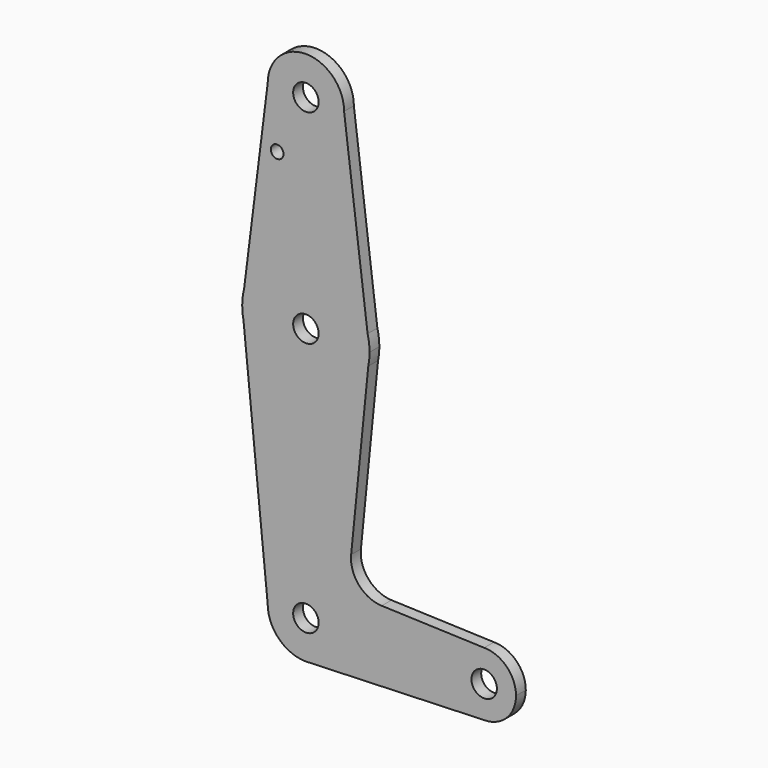
from build123d import *

# Parameters (mm, degrees)
F0_R     = 3.175
F0_R_2   = 1.5875
F1_DEPTH = 3.048


with BuildPart() as f1:
    # F0 (on Front) → F1 (new body)
    with BuildSketch(Plane.XZ):
        with BuildLine():
            ThreePointArc((0.6794904459, -9.5007324841), (6.9712901065, -6.4905114784), (9.525, 0))
            ThreePointArc((9.525, 0), (0, 9.525), (-9.525, 0))
            ThreePointArc((-9.525, 0), (-6.7351920908, -6.7351920908), (0, -9.525))
            Line((0, -9.525), (0.6794904459, -9.5007324841))
        make_face()
        Circle(F0_R, mode=Mode.SUBTRACT)
        with BuildLine():
            ThreePointArc((-9.525, 0), (0, 9.525), (9.525, 0))
            ThreePointArc((9.525, 0), (6.9712901065, -6.4905114784), (0.6794904459, -9.5007324841))
            Line((0.6794904459, -9.5007324841), (44.45, -7.9375))
            ThreePointArc((44.45, -7.9375), (36.5125, 0), (44.45, 7.9375))
            Line((44.45, 7.9375), (18.9105730062, 8.8496223926))
            ThreePointArc((18.9105730062, 8.8496223926), (13.2053552395, 11.5661923774), (11.2835831424, 17.5858314242))
            Line((11.2835831424, 17.5858314242), (15.5606435644, 60.3564356436))
            ThreePointArc((15.5606435644, 60.3564356436), (0, 47.625), (-15.5606435644, 60.3564356436))
            Line((-15.5606435644, 60.3564356436), (-9.525, 0))
        make_face()
        with BuildLine():
            ThreePointArc((0, -9.525), (0.3399618281, -9.5189311877), (0.6794904459, -9.5007324841))
            Line((0.6794904459, -9.5007324841), (0, -9.525))
        make_face()
        with BuildLine():
            Line((-15.875, 63.5), (-15.5606435644, 60.3564356436))
            ThreePointArc((-15.5606435644, 60.3564356436), (0, 47.625), (15.5606435644, 60.3564356436))
            Line((15.5606435644, 60.3564356436), (15.875, 63.5))
            Line((15.875, 63.5), (15.3865384615, 67.4076923077))
            ThreePointArc((15.3865384615, 67.4076923077), (0, 79.375), (-15.3865384615, 67.4076923077))
            Line((-15.3865384615, 67.4076923077), (-15.875, 63.5))
        make_face()
        with Locations((0, 63.5)):
            Circle(F0_R, mode=Mode.SUBTRACT)
        with BuildLine():
            ThreePointArc((-15.875, 63.5), (-15.7962153946, 61.9203784605), (-15.5606435644, 60.3564356436))
            Line((-15.5606435644, 60.3564356436), (-15.875, 63.5))
        make_face()
        with BuildLine():
            ThreePointArc((44.45, 7.9375), (36.5125, 0), (44.45, -7.9375))
            ThreePointArc((44.45, -7.9375), (50.0626600757, -5.6126600757), (52.3875, 0))
            ThreePointArc((52.3875, 0), (50.0626600757, 5.6126600757), (44.45, 7.9375))
        make_face()
        with Locations((44.45, 0)):
            Circle(F0_R, mode=Mode.SUBTRACT)
        with BuildLine():
            ThreePointArc((-15.3865384615, 67.4076923077), (-15.7524112928, 65.4690514116), (-15.875, 63.5))
            Line((-15.875, 63.5), (-15.3865384615, 67.4076923077))
        make_face()
        with BuildLine():
            Line((15.875, 63.5), (15.5606435644, 60.3564356436))
            ThreePointArc((15.5606435644, 60.3564356436), (15.7962153946, 61.9203784605), (15.875, 63.5))
        make_face()
        with BuildLine():
            Line((-9.525, 114.3), (-15.3865384615, 67.4076923077))
            ThreePointArc((-15.3865384615, 67.4076923077), (0, 79.375), (15.3865384615, 67.4076923077))
            Line((15.3865384615, 67.4076923077), (9.525, 114.3))
            ThreePointArc((9.525, 114.3), (0, 104.775), (-9.525, 114.3))
        make_face()
        with Locations((-7.163841743, 100.0252)):
            Circle(F0_R_2, mode=Mode.SUBTRACT)
        with BuildLine():
            Line((15.3865384615, 67.4076923077), (15.875, 63.5))
            ThreePointArc((15.875, 63.5), (15.7524112928, 65.4690514116), (15.3865384615, 67.4076923077))
        make_face()
        with BuildLine():
            ThreePointArc((9.525, 114.3), (0, 123.825), (-9.525, 114.3))
            ThreePointArc((-9.525, 114.3), (0, 104.775), (9.525, 114.3))
        make_face()
        with Locations((0, 114.3)):
            Circle(F0_R, mode=Mode.SUBTRACT)
    extrude(amount=F1_DEPTH)


solid = f1.part
